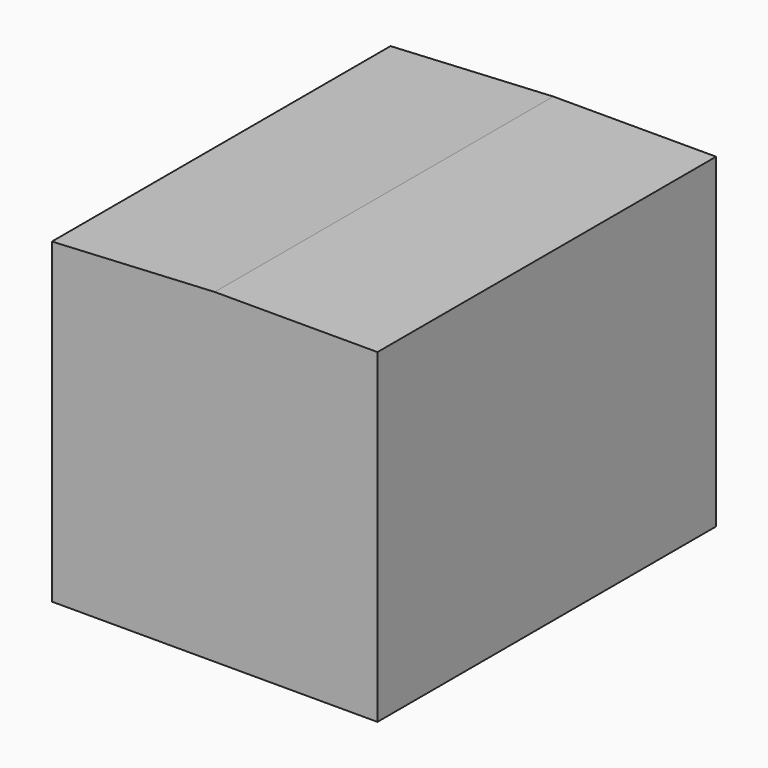
from build123d import *

# Parameters (mm, degrees)
F1_DEPTH = 8.255
F2_R     = 2.0193
F3_DEPTH = 11.43


with BuildPart() as f1:
    # F0 (on Front) → F1 (new body, symmetric)
    with BuildSketch(Plane.XZ):
        Polygon((-12.7, 0), (0, 0), (0, 12.7), (-6.35, 12.7), (-12.7, 12.3672106016), align=None)
    extrude(amount=F1_DEPTH, both=True)

    # F2 (on face) → F3 (cut)
    with BuildSketch(Plane(origin=(0, 0, 0), x_dir=(1, 0, 0), z_dir=(0, 0, -1))):
        with Locations((-6.35, 0)):
            Circle(F2_R)
    extrude(amount=-F3_DEPTH, mode=Mode.SUBTRACT)


solid = f1.part
